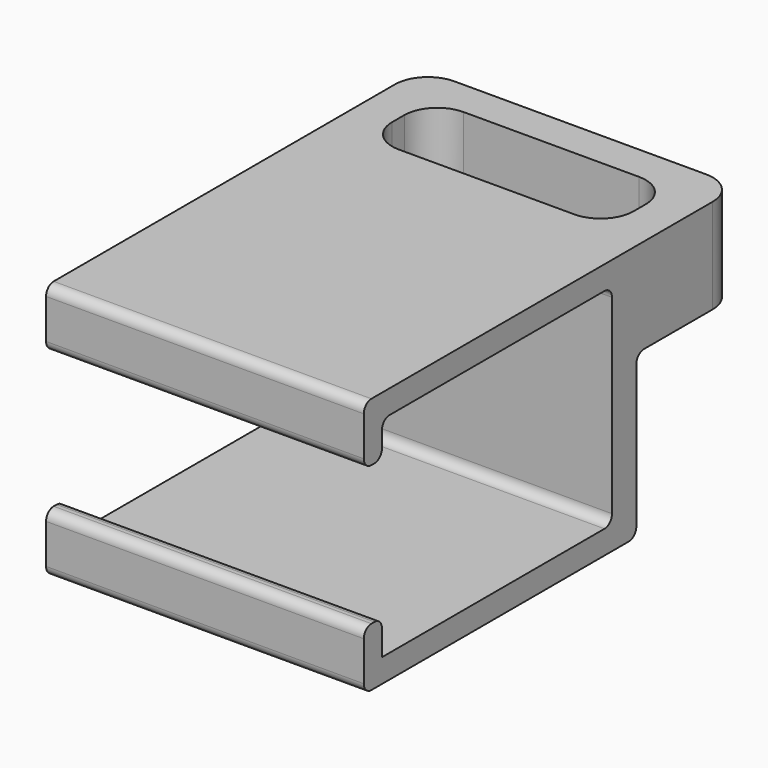
from build123d import *

# Parameters (mm, degrees)
SKETCH_W        = 33.7
SKETCH_H        = 16.25
SKETCH_W_2      = 12.7
SKETCH_H_2      = 8.6
PAD_DEPTH       = 3.75
SKETCH001_W     = 33.7
SKETCH001_H     = 16.25
SKETCH001_W_2   = 25.6
SKETCH001_H_2   = 8.6
PAD001_DEPTH    = 6.3
FILLET_R        = 3.5
SKETCH002_R     = 1.5
POCKET_DEPTH    = 3.751
PAD002_DEPTH    = 27.2
SKETCH004_W     = 0.875
SKETCH004_H     = 17.15
POCKET001_DEPTH = 33.701
FILLET001_R     = 1


with BuildPart() as part:
    # Sketch → Pad (new body)
    with BuildSketch(Plane.XY):
        Rectangle(SKETCH_W, SKETCH_H)
        Rectangle(SKETCH_W_2, SKETCH_H_2, mode=Mode.SUBTRACT)
    extrude(amount=PAD_DEPTH)

    # Sketch001 (on Face10 of Pad) → Pad001 (join)
    with BuildSketch(Plane.XY.offset(3.75)):
        Rectangle(SKETCH001_W, SKETCH001_H)
        Rectangle(SKETCH001_W_2, SKETCH001_H_2, mode=Mode.SUBTRACT)
    extrude(amount=PAD001_DEPTH)

    # Fillet
    fillet_edges = [part.edges().sort_by_distance(p)[0] for p in [
        (-12.8, 4.3, 6.9),
        (12.8, 4.3, 6.9),
        (12.8, -4.3, 6.9),
        (-12.8, -4.3, 6.9),
        (-16.85, -8.125, 5.025),
        (-16.85, 8.125, 5.025),
        (16.85, -8.125, 5.025),
        (16.85, 8.125, 5.025),
    ]]
    fillet(fillet_edges, radius=FILLET_R)

    # Sketch002 (on Face18 of Fillet) → Pocket (cut, through all)
    with BuildSketch(Plane.XY.offset(3.75)):
        with Locations((-9.575, 0)):
            Circle(SKETCH002_R)
        with Locations((9.575, 0)):
            Circle(SKETCH002_R)
    extrude(amount=-POCKET_DEPTH, mode=Mode.SUBTRACT)

    # Sketch003 (on Face16 of Pocket) → Pad002 (join)
    with BuildSketch(Plane.XY.offset(10.05)):
        with BuildLine():
            Line((-16.85, -41.625), (16.85, -41.625))
            Line((16.85, -5.5), (16.85, -41.625))
            Line((16.85, -4.625), (16.85, -5.5))
            ThreePointArc((16.73886, -5.5), (16.822104, -5.066015), (16.85, -4.625))
            Line((16.73886, -5.5), (-16.73886, -5.5))
            ThreePointArc((-16.85, -4.625), (-16.822104, -5.066015), (-16.73886, -5.5))
            Line((-16.85, -4.625), (-16.85, -5.5))
            Line((-16.85, -5.5), (-16.85, -41.625))
        make_face()
    extrude(amount=-PAD002_DEPTH)

    # Sketch004 (on Face26 of Pad002) → Pocket001 (cut, through all)
    with BuildSketch(Plane.YZ.offset(16.85)):
        Polygon((-41.625, 3.85), (-39.225, 3.85), (-39.225, 7.55), (-8.725, 7.55), (-8.725, -14.65), (-39.225, -14.65), (-39.225, -10.95), (-41.625, -10.95), align=None)
        with Locations((-5.0625, -8.575)):
            Rectangle(SKETCH004_W, SKETCH004_H)
    extrude(amount=-POCKET001_DEPTH, mode=Mode.SUBTRACT)

    # Fillet001
    fillet001_edges = [part.edges().sort_by_distance(p)[0] for p in [
        (0, -8.725, 7.55),
        (0, -39.225, 7.55),
        (0, -5.5, -17.15),
        (0, -8.725, -14.65),
        (0, -41.625, 10.05),
        (0, -41.625, -17.15),
        (0, -41.625, -10.95),
        (0, -41.625, 3.85),
        (0, -39.225, 3.85),
        (0, -39.225, -10.95),
        (0, -5.5, 0),
    ]]
    fillet(fillet001_edges, radius=FILLET001_R)


solid = part.part
